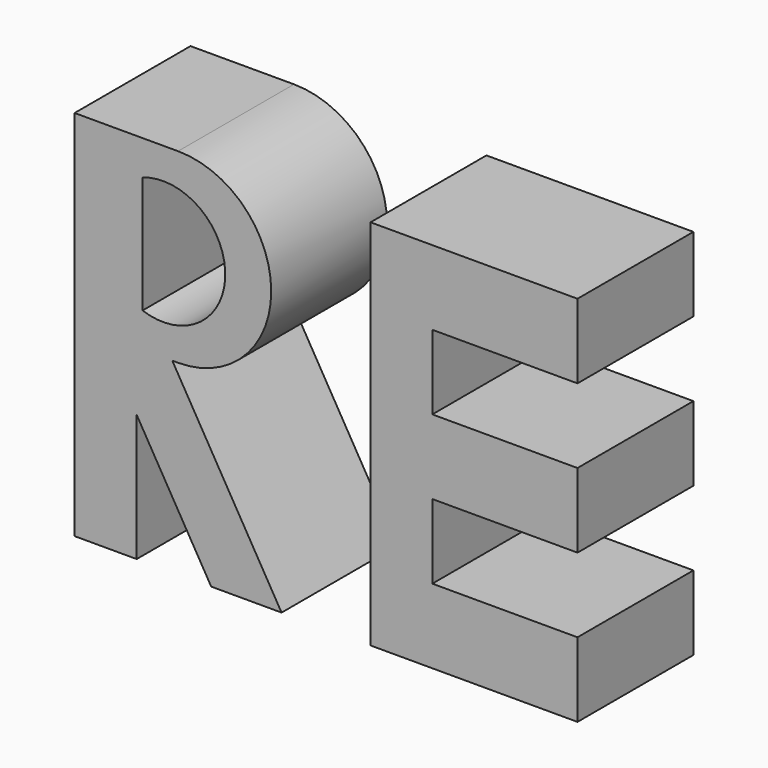
from build123d import *

# Parameters (mm, degrees)
F1_DEPTH = 35


with BuildPart() as f1:
    # F0 (on Front) → F1 (new body)
    with BuildSketch(Plane.XZ):
        with BuildLine():
            Line((-38.505248, 45), (-63.505248, 45))
            Line((-63.505248, 45), (-63.505248, -45))
            Line((-63.505248, -45), (-48.505248, -45))
            Line((-48.505248, -45), (-48.505248, -14.318183))
            Line((-48.505248, -14.318183), (-30.505248, -45))
            Line((-30.505248, -45), (-13.505248, -45))
            Line((-13.505248, -45), (-39.905249, 0))
            Line((-39.905249, 0), (-38.505248, 0))
            ThreePointArc((-38.505248, 0), (-16.005248, 22.5), (-38.505248, 45))
        make_face()
        with BuildLine():
            Line((-47.084793, 8.333811), (-47.084793, 36.634989))
            ThreePointArc((-47.084793, 36.634989), (-27.108769, 22.4844), (-47.084793, 8.333811))
        make_face(mode=Mode.SUBTRACT)
        Polygon((7.985139, 45), (7.985139, -45), (57.985139, -45), (57.985139, -27), (22.91402, -27), (22.91402, -9), (57.985139, -9), (57.985139, 9), (22.91402, 9), (22.91402, 27), (57.985139, 27), (57.985139, 45), align=None)
    extrude(amount=F1_DEPTH)


solid = f1.part
